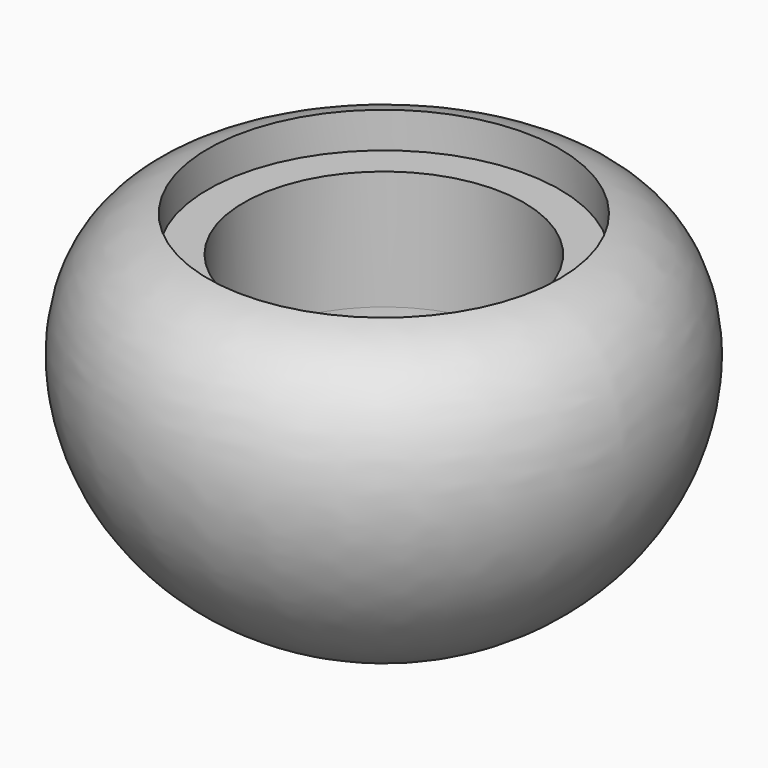
from build123d import *


with BuildPart() as f1:
    # F0 (on Front) → F1 (revolve)
    with BuildSketch(Plane.XZ):
        with BuildLine():
            Line((29.5, 29.6886413177), (23.5, 29.6886413177))
            Line((23.5, 29.6886413177), (23.5, 9.6886413177))
            ThreePointArc((23.5, 9.6886413177), (19.1066017178, -0.9179604001), (8.5, -5.3113586823))
            Line((8.5, -5.3113586823), (0, -5.3113586823))
            Line((0, -5.3113586823), (0, -24.3113586823))
            add(Edge.make_bspline(
                [(29.5, 35.6886413177), (43, 32.6886413177), (51.0440050218, 0.5273848631), (22.6898039743, -24.3113586823), (0, -24.3113586823)],
                knots=[0, 0, 0, 0, 0.4420000814, 1, 1, 1, 1], degree=3))
            Line((29.5, 35.6886413177), (29.5, 29.6886413177))
        make_face()
    revolve(axis=Axis((0, 0, 8.553719148), (0, 0, -1)))


solid = f1.part
